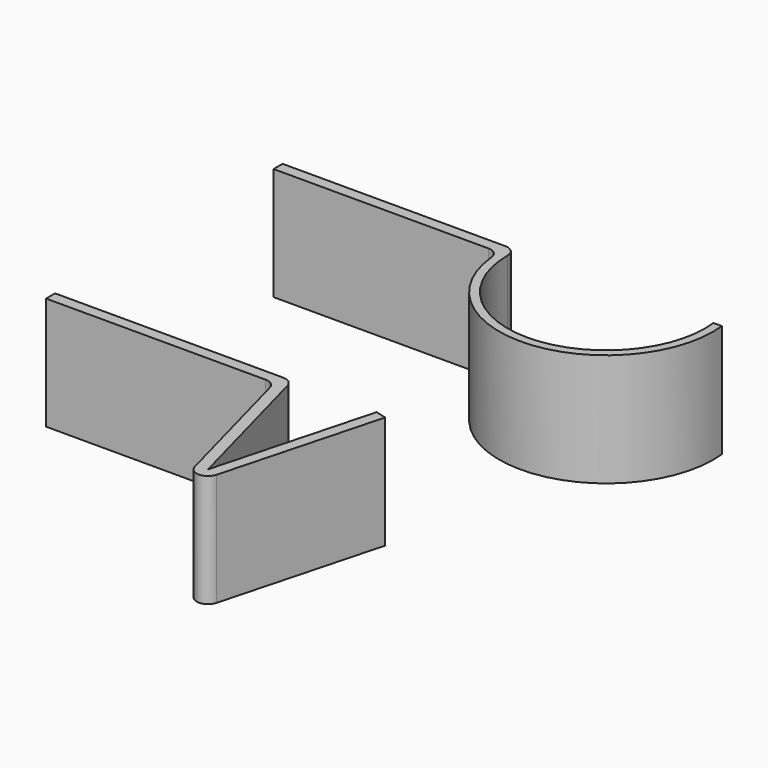
from build123d import *

# Parameters (mm, degrees)
F1_DEPTH = 20
F3_DEPTH = 20
F4_R     = 2
F4_2_R   = 2


with BuildPart() as f1:
    # F0 (on Top) → F1 (new body)
    with BuildSketch(Plane.XY):
        with BuildLine():
            Line((-40, 0), (0, 0))
            Line((0, 0), (0.465346, 0))
            Line((0.465346, 0), (7.568148, -26.508019))
            ThreePointArc((7.568148, -26.508019), (9.5, -27.990381), (11.431852, -26.508019))
            Line((11.431852, -26.508019), (18.931852, 1.482362))
            Line((18.931852, 1.482362), (17, 2))
            Line((17, 2), (9.5, -25.990381))
            Line((9.5, -25.990381), (2, 2))
            Line((2, 2), (-40, 2))
            Line((-40, 2), (-40, 0))
        make_face()
    extrude(amount=F1_DEPTH)

    # F4#2
    f4_2_edges = [f1.edges().sort_by_distance(p)[0] for p in [
        (2, 2, 10),
        (0.465346, 0, 10),
    ]]
    fillet(f4_2_edges, radius=F4_2_R)


with BuildPart() as f3:
    # F2 (on Top) → F3 (new body)
    with BuildSketch(Plane.XY):
        with BuildLine():
            Line((-39.672473, 50), (0.327527, 50))
            ThreePointArc((0.327527, 50), (20.328919, 31.026407), (38.221971, 52))
            Line((38.221971, 52), (36.712866, 52))
            ThreePointArc((36.712866, 52), (19.327527, 32.5), (1.942189, 52))
            Line((1.942189, 52), (-39.672473, 52))
            Line((-39.672473, 52), (-39.672473, 50))
        make_face()
    extrude(amount=F3_DEPTH)

    # F4
    f4_edges = [f3.edges().sort_by_distance(p)[0] for p in [
        (1.942189, 52, 10),
        (0.327527, 50, 10),
    ]]
    fillet(f4_edges, radius=F4_R)


solid = Compound([f1.part, f3.part])
